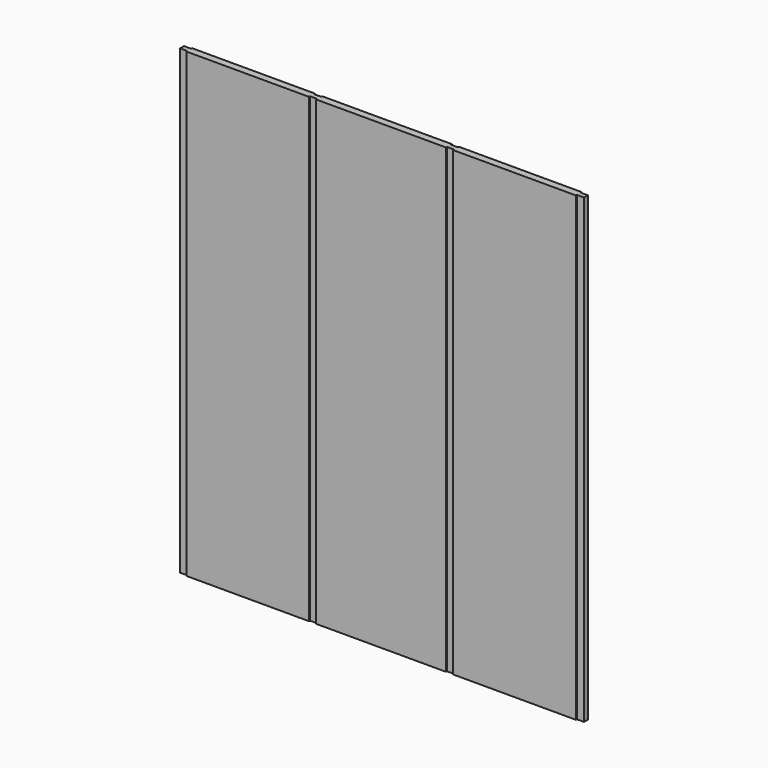
from build123d import *

# Parameters (mm, degrees)
F0_W     = 19.05
F0_H     = 1219.2
F0_W_2   = 323.85
F0_W_3   = 342.9
F1_DEPTH = 19.05
F2_DEPTH = 3.175
F3_W     = 19.05
F3_H     = 1219.2
F4_DEPTH = 3.175


with BuildPart() as f1:
    # F0 (on Front) → F1 (new body)
    with BuildSketch(Plane.XZ):
        with Locations((-451.089586, 158.169563)):
            Rectangle(F0_W, F0_H)
        with Locations((-279.639586, 158.169563)):
            Rectangle(F0_W_2, F0_H)
        with Locations((-108.189586, 158.169563)):
            Rectangle(F0_W, F0_H)
        with Locations((72.785414, 158.169563)):
            Rectangle(F0_W_3, F0_H)
        with Locations((253.760414, 158.169563)):
            Rectangle(F0_W, F0_H)
        with Locations((425.210414, 158.169563)):
            Rectangle(F0_W_2, F0_H)
        with Locations((596.660414, 158.169563)):
            Rectangle(F0_W, F0_H)
    extrude(amount=F1_DEPTH)

    # F0 (on Front) → F2 (cut)
    with BuildSketch(Plane.XZ):
        with Locations((596.660414, 158.169563)):
            Rectangle(F0_W, F0_H)
        with Locations((-451.089586, 158.169563)):
            Rectangle(F0_W, F0_H)
        with Locations((253.760414, 158.169563)):
            Rectangle(F0_W, F0_H)
        with Locations((-108.189586, 158.169563)):
            Rectangle(F0_W, F0_H)
    extrude(amount=F2_DEPTH, mode=Mode.SUBTRACT)

    # F3 (on face) → F4 (cut)
    with BuildSketch(Plane.XZ.offset(19.05)):
        with Locations((596.660414, 158.169563)):
            Rectangle(F3_W, F3_H)
        with Locations((-451.089586, 158.169563)):
            Rectangle(F3_W, F3_H)
        with Locations((-108.189586, 158.169563)):
            Rectangle(F3_W, F3_H)
        with Locations((253.760414, 158.169563)):
            Rectangle(F3_W, F3_H)
    extrude(amount=-F4_DEPTH, mode=Mode.SUBTRACT)


solid = f1.part
